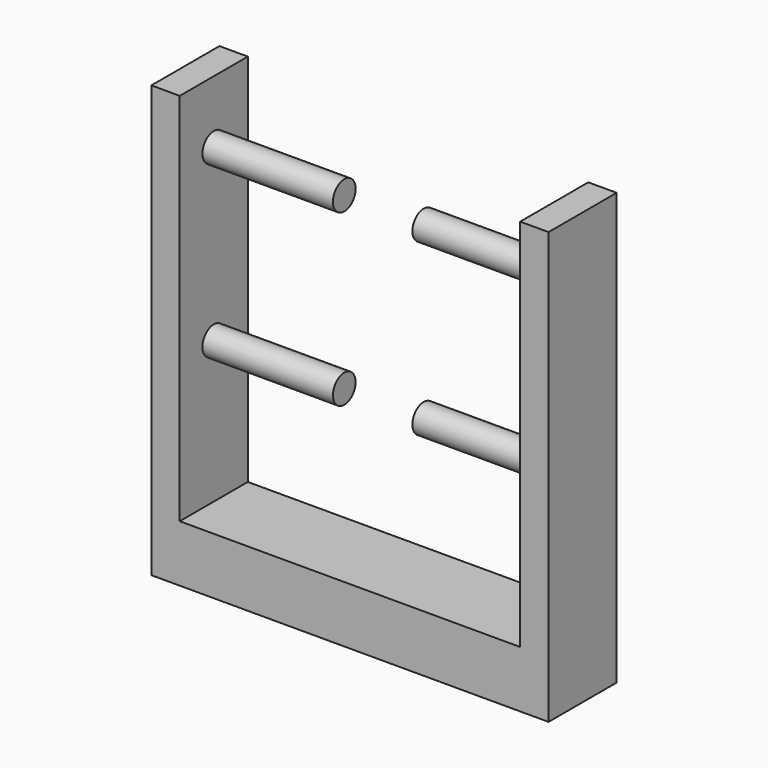
from build123d import *

# Parameters (mm, degrees)
F0_W     = 1.5875
F0_H     = 4.7625
F1_DEPTH = 24.13
F0_W_2   = 19.05
F2_DEPTH = 3.175
F3_R     = 0.79375
F4_DEPTH = 8.89
F5_R     = 0.79375
F6_DEPTH = 8.89


with BuildPart() as f1:
    # F0 (on Top) → F1 (new body)
    with BuildSketch(Plane.XY):
        with Locations((-10.31875, 0)):
            Rectangle(F0_W, F0_H)
    extrude(amount=F1_DEPTH)



with BuildPart() as f1b:
    # F0 (on Top) → F1, piece 2 (new body)
    with BuildSketch(Plane.XY):
        with Locations((10.31875, 0)):
            Rectangle(F0_W, F0_H)
    extrude(amount=F1_DEPTH)


with BuildPart() as f1_1:
    add(f1.part)

    add(f1b.part)  # F2 merges F1b
    # F0 (on Top) → F2 (join)
    with BuildSketch(Plane.XY):
        with Locations((-10.31875, 0)):
            Rectangle(F0_W, F0_H)
        Rectangle(F0_W_2, F0_H)
        with Locations((10.31875, 0)):
            Rectangle(F0_W, F0_H)
    extrude(amount=F2_DEPTH)

    # F3 (on face) → F4 (join)
    with BuildSketch(Plane.YZ.offset(11.1125)):
        with Locations((0, 11.1125)):
            Circle(F3_R)
        with Locations((0, 20.6375)):
            Circle(F3_R)
    extrude(amount=-F4_DEPTH)

    # F5 (on face) → F6 (join)
    with BuildSketch(Plane(origin=(-11.1125, 0, 0), x_dir=(0, -1, 0), z_dir=(-1, 0, 0))):
        with Locations((0, 11.1125)):
            Circle(F5_R)
        with Locations((0, 20.6375)):
            Circle(F5_R)
    extrude(amount=-F6_DEPTH)


solid = f1_1.part
